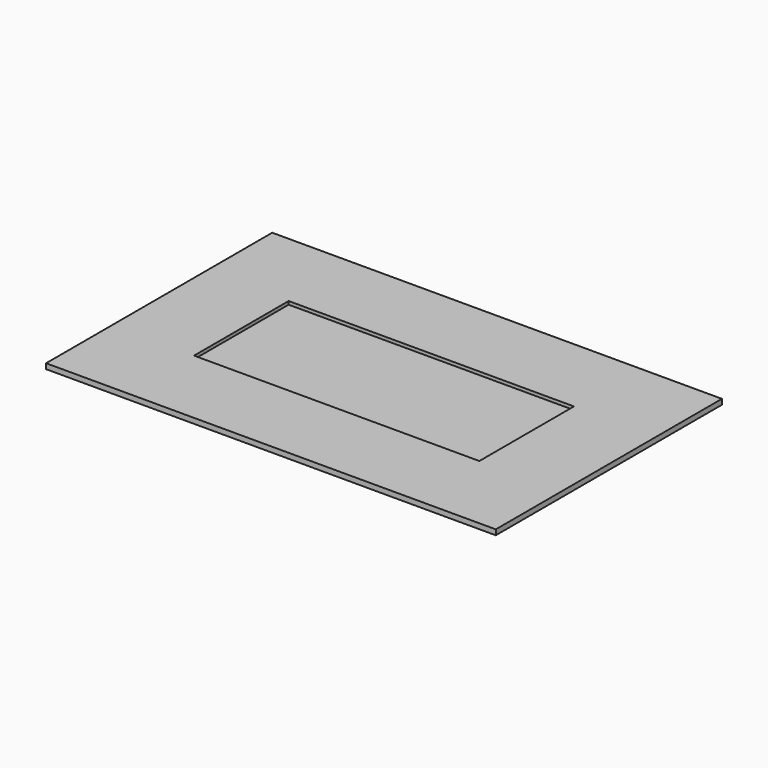
from build123d import *

# Parameters (mm, degrees)
SKETCH_W     = 222.25
SKETCH_H     = 139.7
SKETCH_W_2   = 141
SKETCH_H_2   = 58.4393
PAD_DEPTH    = 1.6
SKETCH001_W  = 222.25
SKETCH001_H  = 139.7
PAD001_DEPTH = 1


with BuildPart() as part:
    # Sketch → Pad (new body)
    with BuildSketch(Plane.XY):
        Rectangle(SKETCH_W, SKETCH_H)
        Rectangle(SKETCH_W_2, SKETCH_H_2, mode=Mode.SUBTRACT)
    extrude(amount=PAD_DEPTH)

    # Sketch001 (on Face9 of Pad) → Pad001 (join)
    with BuildSketch(Plane(origin=(0, 0, 0), x_dir=(1, 0, 0), z_dir=(0, 0, -1))):
        Rectangle(SKETCH001_W, SKETCH001_H)
    extrude(amount=PAD001_DEPTH)


solid = part.part
